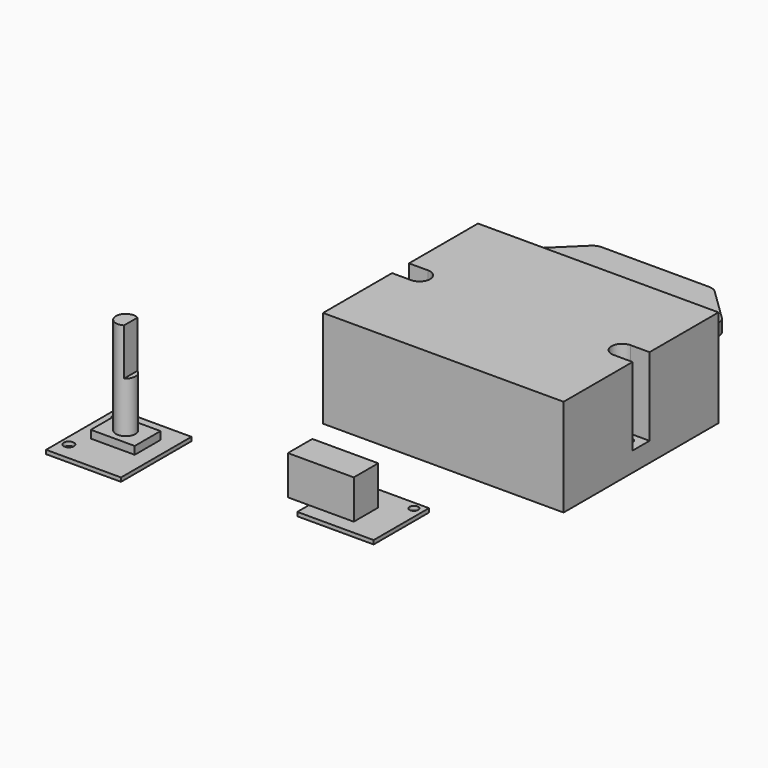
from build123d import *

# Parameters (mm, degrees)
F0_W      = 61.659202
F0_H      = 49.637978
F1_DEPTH  = 25
F3_DEPTH  = 20
F4_R      = 1.421649
F5_DEPTH  = 25
F6_W      = 19.577416
F6_H      = 17.721154
F6_R      = 0.971405
F6_R_2    = 1.110846
F7_DEPTH  = 1
F8_W      = 5.394709
F8_H      = 7.840492
F8_W_2    = 11.496354
F9_DEPTH  = 10
F10_W     = 19.209724
F10_H     = 22.565868
F10_R     = 1.29352
F10_R_2   = 0.998938
F11_DEPTH = 1
F12_W     = 11.237443
F12_H     = 8.265712
F13_DEPTH = 3
F14_R     = 2.5
F15_DEPTH = 25
F16_W     = 2.265696
F16_H     = 6.188683
F17_DEPTH = 12
F18_R     = 1.674399
F18_R_2   = 1.738958
F19_DEPTH = 3
F21_DEPTH = 25


with BuildPart() as f1:
    # F0 (on Top) → F1 (new body)
    with BuildSketch(Plane.XY):
        Rectangle(F0_W, F0_H)
    extrude(amount=F1_DEPTH)

    # F2 (on face) → F3 (cut)
    with BuildSketch(Plane.XY.offset(25)):
        with BuildLine():
            Line((-48.539023, -2.715533), (-25.964985, -2.715533))
            ThreePointArc((-25.964985, -2.715533), (-23.249452, 0), (-25.964985, 2.715533))
            Line((-25.964985, 2.715533), (-48.539023, 2.715533))
            Line((-48.539023, 2.715533), (-48.539023, -2.715533))
        make_face()
        with BuildLine():
            Line((48.539023, -2.715533), (48.539023, 2.715533))
            Line((48.539023, 2.715533), (25.964985, 2.715533))
            ThreePointArc((25.964985, 2.715533), (23.249452, 0), (25.964985, -2.715533))
            Line((25.964985, -2.715533), (48.539023, -2.715533))
        make_face()
    extrude(amount=-F3_DEPTH, mode=Mode.SUBTRACT)

    # F4 (on face) → F5 (cut)
    with BuildSketch(Plane.XY.offset(5)):
        with BuildLine():
            Line((-35.779416, -1.28587), (-27.861754, -1.28587))
            ThreePointArc((-27.861754, -1.28587), (-26.575883, 0), (-27.861754, 1.28587))
            Line((-27.861754, 1.28587), (-35.779416, 1.28587))
            Line((-35.779416, 1.28587), (-35.779416, -1.28587))
        make_face()
        with Locations((27.258597, 0)):
            Circle(F4_R)
    extrude(amount=-F5_DEPTH, mode=Mode.SUBTRACT)


with BuildPart() as f7:
    # F6 (on Top) → F7 (new body)
    with BuildSketch(Plane.XY):
        with Locations((0, -50.51963)):
            Rectangle(F6_W, F6_H)
        with Locations((-7.829157, -43.618601)):
            Circle(F6_R, mode=Mode.SUBTRACT)
        with Locations((7.506458, -43.618601)):
            Circle(F6_R_2, mode=Mode.SUBTRACT)
    extrude(amount=F7_DEPTH)

    # F8 (on face) → F9 (join)
    with BuildSketch(Plane.XY.offset(1)):
        with Locations((-12.486062, -51.728945)):
            Rectangle(F8_W, F8_H)
        with Locations((-4.040531, -51.728945)):
            Rectangle(F8_W_2, F8_H)
    extrude(amount=F9_DEPTH)


with BuildPart() as f11:
    # F10 (on Top) → F11 (new body)
    with BuildSketch(Plane.XY):
        with Locations((-56.261646, -58.487864)):
            Rectangle(F10_W, F10_H)
        with Locations((-63.735321, -65.123782)):
            Circle(F10_R, mode=Mode.SUBTRACT)
        with Locations((-63.705809, -49.900506)):
            Circle(F10_R_2, mode=Mode.SUBTRACT)
    extrude(amount=F11_DEPTH)

    # F12 (on Top) → F13 (join)
    with BuildSketch(Plane.XY):
        with Locations((-56.261646, -56.269545)):
            Rectangle(F12_W, F12_H)
    extrude(amount=F13_DEPTH)

    # F14 (on face) → F15 (join)
    with BuildSketch(Plane.XY.offset(3)):
        with Locations((-56.261646, -56.269545)):
            Circle(F14_R)
    extrude(amount=F15_DEPTH)

    # F16 (on face) → F17 (cut)
    with BuildSketch(Plane.XY.offset(28)):
        with Locations((-53.833885, -56.285686)):
            Rectangle(F16_W, F16_H)
    extrude(amount=-F17_DEPTH, mode=Mode.SUBTRACT)


with BuildPart() as f19:
    # F18 (on Top) → F19 (new body)
    with BuildSketch(Plane.XY):
        with BuildLine():
            Line((-31.49543, 43.287491), (-3.933392, 43.287491))
            ThreePointArc((-3.933392, 43.287491), (-3.310314, 43.352909), (-2.714411, 43.546308))
            ThreePointArc((-2.714411, 43.546308), (-2.251458, 43.803322), (-1.840903, 44.137726))
            Line((-1.840903, 44.137726), (6.378078, 52.137726))
            ThreePointArc((6.378078, 52.137726), (7.285589, 54.287491), (6.378078, 56.437257))
            Line((6.378078, 56.437257), (-1.840903, 64.437257))
            ThreePointArc((-1.840903, 64.437257), (-2.251458, 64.771661), (-2.714411, 65.028674))
            ThreePointArc((-2.714411, 65.028674), (-3.310314, 65.222074), (-3.933392, 65.287491))
            Line((-3.933392, 65.287491), (-31.49543, 65.287491))
            ThreePointArc((-31.49543, 65.287491), (-32.118507, 65.222074), (-32.714411, 65.028674))
            ThreePointArc((-32.714411, 65.028674), (-33.177363, 64.771661), (-33.587918, 64.437257))
            Line((-33.587918, 64.437257), (-41.806899, 56.437257))
            ThreePointArc((-41.806899, 56.437257), (-42.714411, 54.287491), (-41.806899, 52.137726))
            Line((-41.806899, 52.137726), (-33.587918, 44.137726))
            ThreePointArc((-33.587918, 44.137726), (-33.177363, 43.803322), (-32.714411, 43.546308))
            ThreePointArc((-32.714411, 43.546308), (-32.118507, 43.352909), (-31.49543, 43.287491))
        make_face()
        with Locations((-37.714411, 54.287491)):
            Circle(F18_R, mode=Mode.SUBTRACT)
        with Locations((2.285589, 54.287491)):
            Circle(F18_R_2, mode=Mode.SUBTRACT)
    extrude(amount=F19_DEPTH)

    # F20 (on face) → F21 (join)
    with BuildSketch(Plane(origin=(0, 0, 0), x_dir=(1, 0, 0), z_dir=(0, 0, -1))):
        Polygon((-5.714411, -45.287491), (-17.714411, -45.287491), (-29.714411, -45.287491), (-29.714411, -57.287491), (-23.714411, -63.287491), (-17.714411, -63.287491), (-11.714411, -63.287491), (-5.714411, -57.287491), align=None)
    extrude(amount=F21_DEPTH)


solid = Compound([f1.part, f7.part, f11.part, f19.part])
